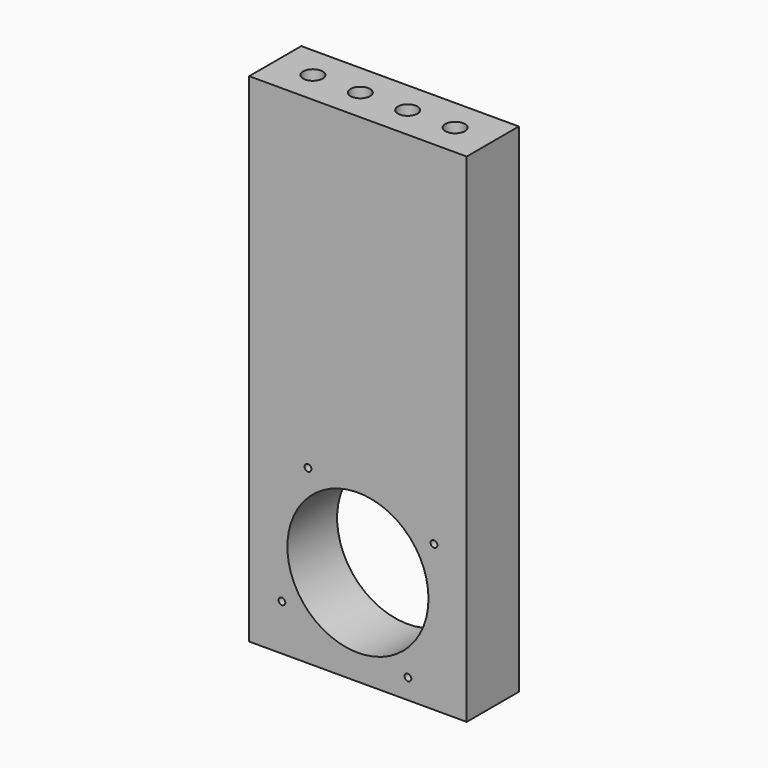
from build123d import *

# Parameters (mm, degrees)
F0_W     = 111
F0_H     = 254
F0_R     = 1.727
F0_R_2   = 36.003175
F1_DEPTH = 33.25
F2_R     = 42.045
F3_DEPTH = 1.53
F4_R     = 5
F5_DEPTH = 20


with BuildPart() as f1:
    # F0 (on Front) → F1 (new body)
    with BuildSketch(Plane.XZ):
        with Locations((-1.262473, 43.099124)):
            Rectangle(F0_W, F0_H)
        with Locations((-40.06318, -60.397701)):
            Circle(F0_R, mode=Mode.SUBTRACT)
        with Locations((-1.262473, -34.897701)):
            Circle(F0_R_2, mode=Mode.SUBTRACT)
        with Locations((-26.762473, 3.903007)):
            Circle(F0_R, mode=Mode.SUBTRACT)
        with Locations((24.237527, -73.698408)):
            Circle(F0_R, mode=Mode.SUBTRACT)
        with Locations((37.538235, -9.397701)):
            Circle(F0_R, mode=Mode.SUBTRACT)
    extrude(amount=F1_DEPTH)

    # F2 (on face) → F3 (cut)
    with BuildSketch(Plane(origin=(0, 0, 0), x_dir=(-1, 0, 0), z_dir=(0, 1, 0))):
        with Locations((1.262473, -34.897701)):
            Circle(F2_R)
    extrude(amount=-F3_DEPTH, mode=Mode.SUBTRACT)

    # F4 (on face) → F5 (cut)
    with BuildSketch(Plane.XY.offset(170.099124)):
        with Locations((-37.562473, -16.625)):
            Circle(F4_R)
        with Locations((-13.362473, -16.625)):
            Circle(F4_R)
        with Locations((10.837527, -16.625)):
            Circle(F4_R)
        with Locations((35.037527, -16.625)):
            Circle(F4_R)
    extrude(amount=-F5_DEPTH, mode=Mode.SUBTRACT)


solid = f1.part
